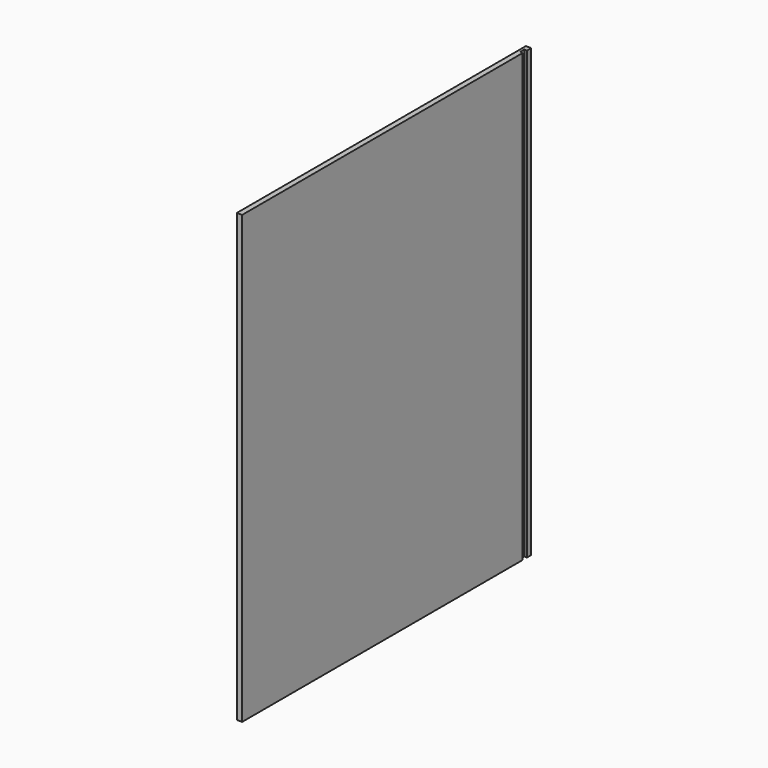
from build123d import *

# Parameters (mm, degrees)
F0_W     = 419.1
F0_H     = 533.4
F0_W_2   = 6.35
F1_DEPTH = 3.2
F2_DEPTH = 3.2


with BuildPart() as f1:
    # F0 (on Right) → F1 (new body)
    with BuildSketch(Plane.YZ):
        with Locations((-116.7531154453, 2.6927372277)):
            Rectangle(F0_W, F0_H)
        with Locations((102.3218845547, 2.6927372277)):
            Rectangle(F0_W_2, F0_H)
        with Locations((95.9718845547, 2.6927372277)):
            Rectangle(F0_W_2, F0_H)
    extrude(amount=-F1_DEPTH)

    # F0 (on Right) → F2 (join)
    with BuildSketch(Plane.YZ):
        with Locations((-116.7531154453, 2.6927372277)):
            Rectangle(F0_W, F0_H)
        with Locations((102.3218845547, 2.6927372277)):
            Rectangle(F0_W_2, F0_H)
    extrude(amount=F2_DEPTH)


solid = f1.part
